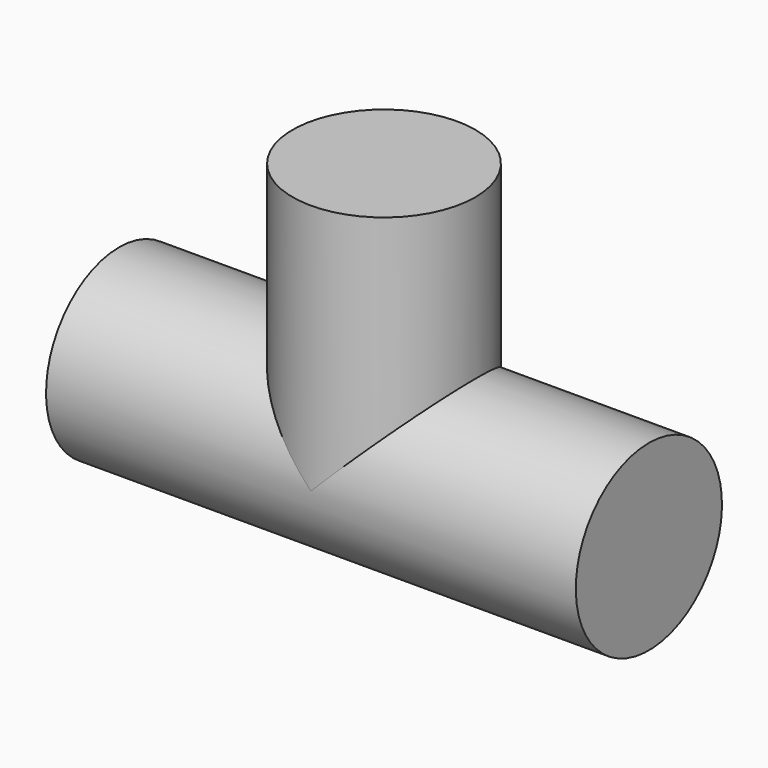
from build123d import *

# Parameters (mm, degrees)
CYLINDER006_R             = 20
CYLINDER006_DEPTH         = 116
CYLINDER005_R             = 20
CYLINDER005_DEPTH         = 55
FUSION001_PLACEMENT_ANGLE = 90


with BuildPart() as cylinder003:
    # Cylinder006 → Cylinder006 (new body)
    with BuildSketch(Plane.XY):
        Circle(CYLINDER006_R)
    extrude(amount=CYLINDER006_DEPTH)


with BuildPart() as obj1:
    # Cylinder005 → Cylinder005 (new body)
    with BuildSketch(Plane(origin=(0, 0, 58), x_dir=(0, 0, -1), z_dir=(1, 0, 0))):
        Circle(CYLINDER005_R)
    extrude(amount=CYLINDER005_DEPTH)

    # Fusion001: union Cylinder003
    add(cylinder003.part)


with BuildPart() as obj1_1:
    # Fusion001 placement: moved
    add(obj1.part.moved(Location((566, -120, -675))).rotate(Axis((566, -120, -675), (0, -1, 0)), FUSION001_PLACEMENT_ANGLE))


solid = obj1_1.part
